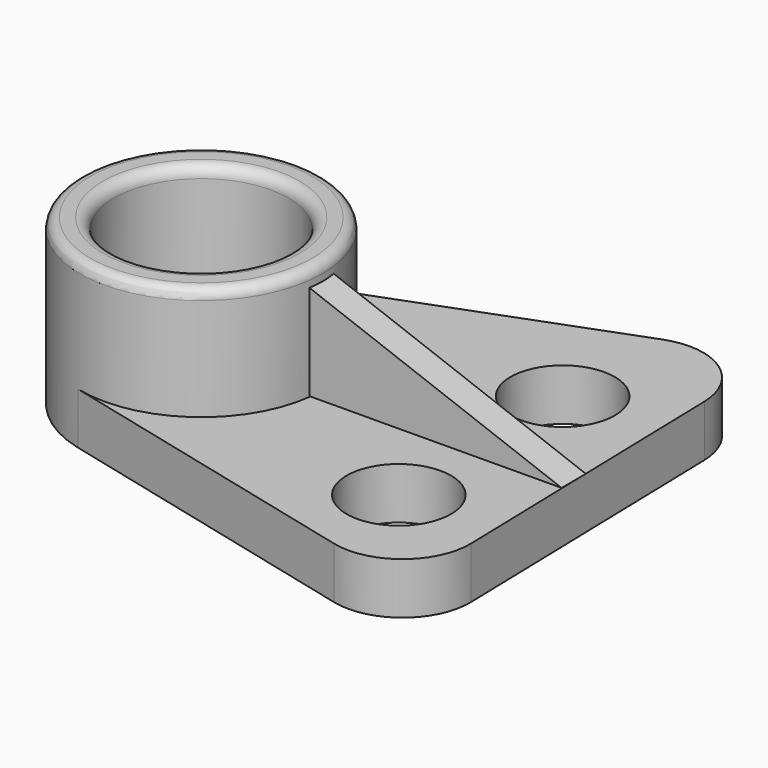
from build123d import *

# Parameters (mm, degrees)
F0_R     = 42.8562327702
F1_DEPTH = 25.4
F2_DEPTH = 81.026
F3_R     = 33.2230738651
F4_R     = 5.5188922036
F5_R     = 5.08
F6_R     = 25.7152601394
F7_DEPTH = 59.182
F9_DEPTH = 7.493


with BuildPart() as f1:
    # F0 (on Top) → F1 (new body)
    with BuildSketch(Plane.XY):
        with BuildLine():
            ThreePointArc((-79.4371213769, -57.9695416598), (-28.2685910836, -47.036260575), (-5.3481783741, 0))
            ThreePointArc((-5.3481783741, 0), (-31.0855992866, 49.1102951098), (-86.1149848851, 55.8928198351))
            ThreePointArc((-86.1149848851, 55.8928198351), (-124.6918824332, -3.4966639305), (-79.4371213769, -57.9695416598))
        make_face()
        with Locations((-65.0712549686, 0)):
            Circle(F0_R, mode=Mode.SUBTRACT)
        with BuildLine():
            ThreePointArc((-86.1149848851, 55.8928198351), (-31.0855992866, 49.1102951098), (-5.3481783741, 0))
            ThreePointArc((-5.3481783741, 0), (-28.2685910836, -47.036260575), (-79.4371213769, -57.9695416598))
            Line((-79.4371213769, -57.9695416598), (120.1632661658, -107.4340090401))
            Line((120.1632661658, -107.4340090401), (114.0664431846, 131.2614256598))
            Line((114.0664431846, 131.2614256598), (-86.1149848851, 55.8928198351))
        make_face()
    extrude(amount=F1_DEPTH)

    # F0 (on Top) → F2 (join)
    with BuildSketch(Plane.XY):
        with BuildLine():
            ThreePointArc((-79.4371213769, -57.9695416598), (-28.2685910836, -47.036260575), (-5.3481783741, 0))
            ThreePointArc((-5.3481783741, 0), (-31.0855992866, 49.1102951098), (-86.1149848851, 55.8928198351))
            ThreePointArc((-86.1149848851, 55.8928198351), (-124.6918824332, -3.4966639305), (-79.4371213769, -57.9695416598))
        make_face()
        with Locations((-65.0712549686, 0)):
            Circle(F0_R, mode=Mode.SUBTRACT)
    extrude(amount=F2_DEPTH)

    # F3
    f3_edges = [f1.edges().sort_by_distance(p)[0] for p in [
        (120.163266, -107.434009, 12.7),
        (114.066443, 131.261426, 12.7),
    ]]
    fillet(f3_edges, radius=F3_R)

    # F4
    f4_edges = [f1.edges().sort_by_distance(p)[0] for p in [
        (-107.927488, 0, 81.026),
    ]]
    fillet(f4_edges, radius=F4_R)

    # F5
    f5_edges = [f1.edges().sort_by_distance(p)[0] for p in [
        (-44.027525, -55.89282, 81.026),
    ]]
    fillet(f5_edges, radius=F5_R)

    # F6 (on Top) → F7 (cut)
    with BuildSketch(Plane.XY):
        with Locations((72.004429996, -49.6582314372)):
            Circle(F6_R)
        with Locations((69.8762312531, 53.9146512747)):
            Circle(F6_R)
    extrude(amount=F7_DEPTH, mode=Mode.SUBTRACT)

    # F8 (on Front) → F9 (join, symmetric)
    with BuildSketch(Plane.XZ):
        Polygon((-11.3121019676, 25.740753975), (118.4722334146, 26.3785142452), (-11.3121019676, 74.8483398067), align=None)
    extrude(amount=F9_DEPTH, both=True)


solid = f1.part
